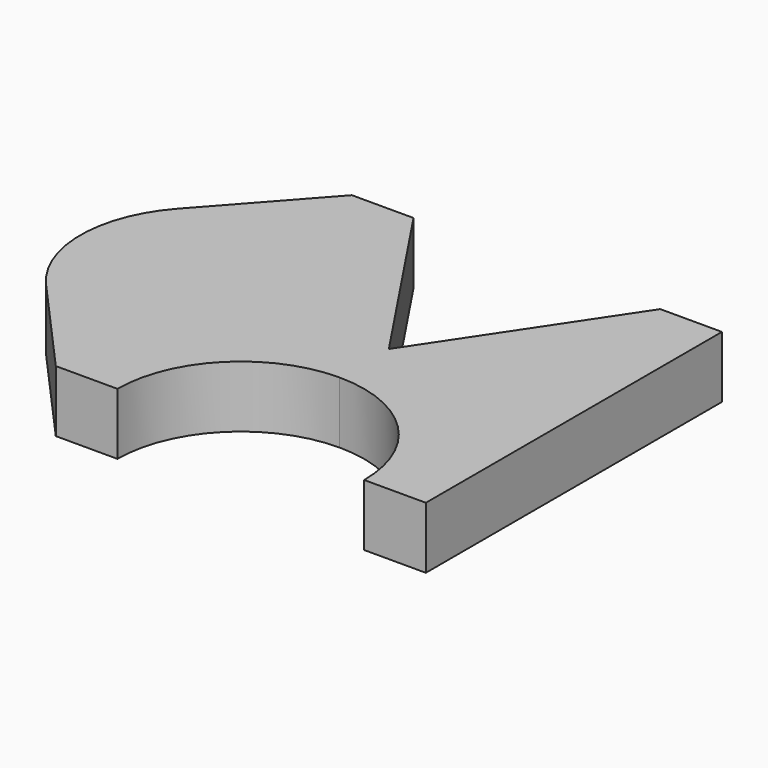
from build123d import *

# Parameters (mm, degrees)
F1_DEPTH = 10


with BuildPart() as f1:
    # F0 (on Top) → F1 (new body)
    with BuildSketch(Plane.XY):
        with BuildLine():
            Line((20, 30), (0, 0))
            Line((0, 0), (-20, 30))
            Line((-20, 30), (-30, 30))
            Line((-30, 30), (-44.90712, 13.333333))
            ThreePointArc((-44.90712, 13.333333), (-50, 0), (-44.90712, -13.333333))
            Line((-44.90712, -13.333333), (-30, -30))
            Line((-30, -30), (-20, -30))
            ThreePointArc((-20, -30), (-14.142136, -15.857864), (0, -10))
            ThreePointArc((0, -10), (14.142136, -15.857864), (20, -30))
            Line((20, -30), (30, -30))
            Line((30, -30), (30, 30))
            Line((30, 30), (20, 30))
        make_face()
    extrude(amount=F1_DEPTH)


solid = f1.part
